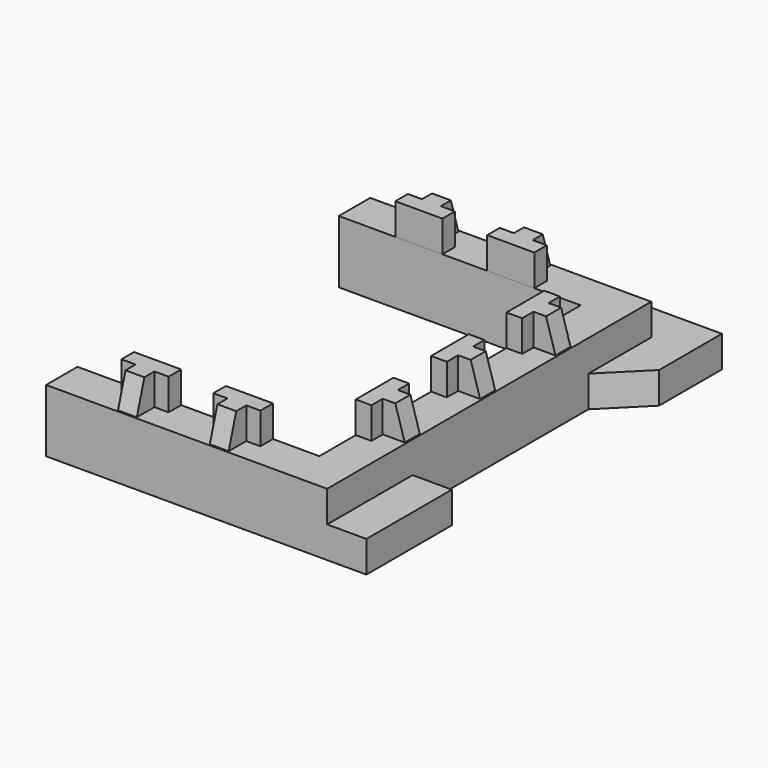
from build123d import *

# Parameters (mm, degrees)
PAD_DEPTH               = 20
POCKET_DEPTH            = 10
PAD001_DEPTH            = 10
POCKET001_DEPTH         = 10.501002
PAD002_DEPTH            = 10
POCKET002_DEPTH         = 10.501002
PAD004_DEPTH            = 10
POCKET004_DEPTH         = 10.501002
BODY005_PLACEMENT_ANGLE = 180
PAD005_DEPTH            = 10
POCKET005_DEPTH         = 10.501002
BODY006_PLACEMENT_ANGLE = 180
PAD006_DEPTH            = 10
POCKET006_DEPTH         = 10.501002
BODY007_PLACEMENT_ANGLE = 90
PAD007_DEPTH            = 10
POCKET007_DEPTH         = 10.501002
BODY008_PLACEMENT_ANGLE = 90
PAD008_DEPTH            = 10
POCKET008_DEPTH         = 10.501002
BODY009_PLACEMENT_ANGLE = 90


with BuildPart() as obj1:
    # Sketch → Pad (new body)
    with BuildSketch(Plane.XY):
        Polygon((-43, 116.5), (-12.5, 116.5), (0, 129), (25, 129), (25, 104), (12.5, 91.5), (12.5, 21.5), (25, 21.5), (25, -12.5), (12.5, -12.5), (-77, -12.5), (-77, 0), (0, 0), (0, 104), (-77, 104), (-77, 116.5), (-77, 129), (-43, 129), align=None)
    extrude(amount=PAD_DEPTH)

    # Sketch018 (on Face20 of Pad) → Pocket (cut)
    with BuildSketch(Plane.XY.offset(20)):
        Polygon((12.5, -12.5), (12.5, 116.5), (-77, 116.5), (-77, 129), (25, 129), (25, -12.5), align=None)
    extrude(amount=-POCKET_DEPTH, mode=Mode.SUBTRACT)


with BuildPart() as obj1_1:
    # Body placement: moved
    add(obj1.part.moved(Location((3, 0, 0))))


with BuildPart() as obj2:
    # Sketch002 → Pad001 (new body)
    with BuildSketch(Plane.XY):
        Polygon((4, -35), (19, -35), (19, -40), (14.499998, -40), (14.499998, -47), (8.499998, -47), (8.499998, -40), (3.999996, -40), align=None)
    extrude(amount=PAD001_DEPTH)

    # Sketch003 (on Face4 of Pad001) → Pocket001 (cut, through all)
    with BuildSketch(Plane.YZ.offset(14.499998)):
        Polygon((-44, 10), (-47, 0), (-47, 10), align=None)
    extrude(amount=-POCKET001_DEPTH, mode=Mode.SUBTRACT)


with BuildPart() as obj2_1:
    # Body002 placement: moved
    add(obj2.part.moved(Location((-60, 35, 20))))


with BuildPart() as obj3:
    # Sketch004 → Pad002 (new body)
    with BuildSketch(Plane.XY):
        Polygon((4, -35), (19, -35), (19, -40), (14.499998, -40), (14.499998, -47), (8.499998, -47), (8.499998, -40), (3.999996, -40), align=None)
    extrude(amount=PAD002_DEPTH)

    # Sketch005 (on Face4 of Pad002) → Pocket002 (cut, through all)
    with BuildSketch(Plane.YZ.offset(14.499998)):
        Polygon((-44, 10), (-47, 0), (-47, 10), align=None)
    extrude(amount=-POCKET002_DEPTH, mode=Mode.SUBTRACT)


with BuildPart() as obj3_1:
    # Body003 placement: moved
    add(obj3.part.moved(Location((-30.75, 35, 20))))


with BuildPart() as obj4:
    # Sketch008 → Pad004 (new body)
    with BuildSketch(Plane.XY):
        Polygon((4, -35), (19, -35), (19, -40), (14.499998, -40), (14.499998, -47), (8.499998, -47), (8.499998, -40), (3.999996, -40), align=None)
    extrude(amount=PAD004_DEPTH)

    # Sketch009 (on Face4 of Pad004) → Pocket004 (cut, through all)
    with BuildSketch(Plane.YZ.offset(14.499998)):
        Polygon((-44, 10), (-47, 0), (-47, 10), align=None)
    extrude(amount=-POCKET004_DEPTH, mode=Mode.SUBTRACT)


with BuildPart() as obj4_1:
    # Body005 placement: moved
    add(obj4.part.moved(Location((-7.75, 69, 20))).rotate(Axis((-7.75, 69, 20), (0, 0, 1)), BODY005_PLACEMENT_ANGLE))


with BuildPart() as obj5:
    # Sketch010 → Pad005 (new body)
    with BuildSketch(Plane.XY):
        Polygon((4, -35), (19, -35), (19, -40), (14.499998, -40), (14.499998, -47), (8.499998, -47), (8.499998, -40), (3.999996, -40), align=None)
    extrude(amount=PAD005_DEPTH)

    # Sketch011 (on Face4 of Pad005) → Pocket005 (cut, through all)
    with BuildSketch(Plane.YZ.offset(14.499998)):
        Polygon((-44, 10), (-47, 0), (-47, 10), align=None)
    extrude(amount=-POCKET005_DEPTH, mode=Mode.SUBTRACT)


with BuildPart() as obj5_1:
    # Body006 placement: moved
    add(obj5.part.moved(Location((-37, 69, 20))).rotate(Axis((-37, 69, 20), (0, 0, 1)), BODY006_PLACEMENT_ANGLE))


with BuildPart() as obj6:
    # Sketch012 → Pad006 (new body)
    with BuildSketch(Plane.XY):
        Polygon((4, -35), (19, -35), (19, -40), (14.499998, -40), (14.499998, -47), (8.499998, -47), (8.499998, -40), (3.999996, -40), align=None)
    extrude(amount=PAD006_DEPTH)

    # Sketch013 (on Face4 of Pad006) → Pocket006 (cut, through all)
    with BuildSketch(Plane.YZ.offset(14.499998)):
        Polygon((-44, 10), (-47, 0), (-47, 10), align=None)
    extrude(amount=-POCKET006_DEPTH, mode=Mode.SUBTRACT)


with BuildPart() as obj6_1:
    # Body007 placement: moved
    add(obj6.part.moved(Location((-32, 10.5, 20))).rotate(Axis((-32, 10.5, 20), (0, 0, 1)), BODY007_PLACEMENT_ANGLE))


with BuildPart() as obj7:
    # Sketch014 → Pad007 (new body)
    with BuildSketch(Plane.XY):
        Polygon((4, -35), (19, -35), (19, -40), (14.499998, -40), (14.499998, -47), (8.499998, -47), (8.499998, -40), (3.999996, -40), align=None)
    extrude(amount=PAD007_DEPTH)

    # Sketch015 (on Face4 of Pad007) → Pocket007 (cut, through all)
    with BuildSketch(Plane.YZ.offset(14.499998)):
        Polygon((-44, 10), (-47, 0), (-47, 10), align=None)
    extrude(amount=-POCKET007_DEPTH, mode=Mode.SUBTRACT)


with BuildPart() as obj7_1:
    # Body008 placement: moved
    add(obj7.part.moved(Location((-32, 40.5, 20))).rotate(Axis((-32, 40.5, 20), (0, 0, 1)), BODY008_PLACEMENT_ANGLE))


with BuildPart() as obj8:
    # Sketch016 → Pad008 (new body)
    with BuildSketch(Plane.XY):
        Polygon((4, -35), (19, -35), (19, -40), (14.499998, -40), (14.499998, -47), (8.499998, -47), (8.499998, -40), (3.999996, -40), align=None)
    extrude(amount=PAD008_DEPTH)

    # Sketch017 (on Face4 of Pad008) → Pocket008 (cut, through all)
    with BuildSketch(Plane.YZ.offset(14.499998)):
        Polygon((-44, 10), (-47, 0), (-47, 10), align=None)
    extrude(amount=-POCKET008_DEPTH, mode=Mode.SUBTRACT)


with BuildPart() as obj8_1:
    # Body009 placement: moved
    add(obj8.part.moved(Location((-32, 70.5, 20))).rotate(Axis((-32, 70.5, 20), (0, 0, 1)), BODY009_PLACEMENT_ANGLE))


solid = Compound([obj1_1.part, obj2_1.part, obj3_1.part, obj4_1.part, obj5_1.part, obj6_1.part, obj7_1.part, obj8_1.part])
